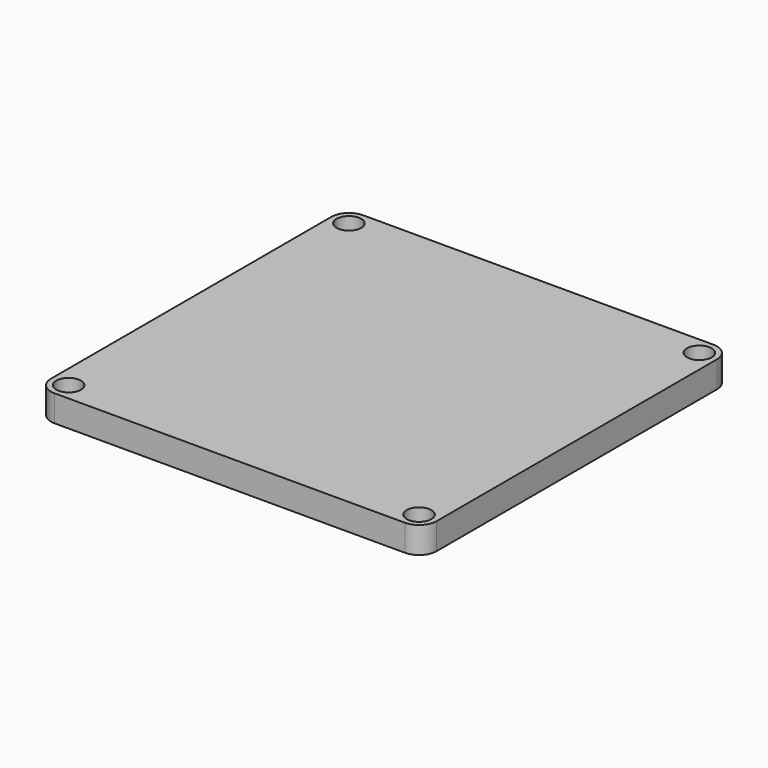
from build123d import *

# Parameters (mm, degrees)
F0_W     = 277.8125
F0_H     = 277.8252
F1_DEPTH = 19.05
F2_R     = 12.7
F3_R     = 8.89
F4_DEPTH = 25.4


with BuildPart() as f1:
    # F0 (on Top) → F1 (new body)
    with BuildSketch(Plane.XY):
        Rectangle(F0_W, F0_H)
    extrude(amount=F1_DEPTH)

    # F2
    f2_edges = [f1.edges().sort_by_distance(p)[0] for p in [
        (-138.90625, -138.9126, 9.525),
        (-138.90625, 138.9126, 9.525),
        (138.90625, 138.9126, 9.525),
        (138.90625, -138.9126, 9.525),
    ]]
    fillet(f2_edges, radius=F2_R)

    # F3 (on face) → F4 (cut)
    with BuildSketch(Plane.XY.offset(19.05)):
        with Locations((-126.20625, 126.2126)):
            Circle(F3_R)
        with Locations((126.20625, 126.2126)):
            Circle(F3_R)
        with Locations((126.20625, -126.2126)):
            Circle(F3_R)
        with Locations((-126.20625, -126.2126)):
            Circle(F3_R)
    extrude(amount=-F4_DEPTH, mode=Mode.SUBTRACT)


solid = f1.part
